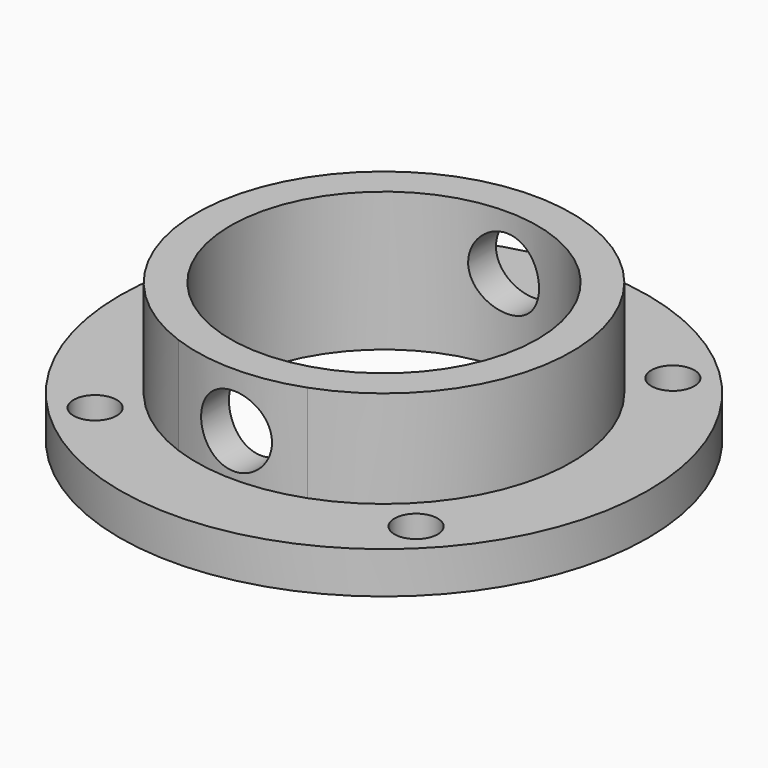
from build123d import *

# Parameters (mm, degrees)
F0_R     = 11.05
F1_DEPTH = 10
F4_D     = 5
F4_DEPTH = 19.5
F4_TIP   = 1.5021515476
F5_R     = 19
F5_R_2   = 1.55
F5_R_3   = 13.5
F6_DEPTH = 3
F9_D     = 5.1


with BuildPart() as f1:
    # F0 (on Top) → F1 (new body)
    with BuildSketch(Plane.XY):
        with BuildLine():
            ThreePointArc((4.633508996, -12.6799288004), (11.063506936, -7.7362015406), (13.5, 0))
            ThreePointArc((13.5, 0), (-7.7362015406, 11.063506936), (-4.633508996, -12.6799288004))
            ThreePointArc((-4.633508996, -12.6799288004), (0, -13.5), (4.633508996, -12.6799288004))
        make_face()
        Circle(F0_R, mode=Mode.SUBTRACT)
    extrude(amount=F1_DEPTH)

    # F4 (one way)
    with BuildSketch(Plane.XZ.offset(9.75)):
        with Locations((0, 5)):
            Circle(F4_D / 2)
    extrude(amount=-F4_DEPTH, mode=Mode.SUBTRACT)
    with Locations(Plane.XZ.offset(9.75)):
        with Locations((0, 5)):
            with Locations((0, 0, -(F4_DEPTH + F4_TIP / 2))):  # 118° drill point
                Cone(0, F4_D / 2, F4_TIP, mode=Mode.SUBTRACT)

    # F5 (on Top) → F6 (join)
    with BuildSketch(Plane.XY):
        Circle(F5_R)
        with Locations((-11.5448845004, -11.5448845004)):
            Circle(F5_R_2, mode=Mode.SUBTRACT)
        with Locations((11.5448845004, -11.5448845004)):
            Circle(F5_R_2, mode=Mode.SUBTRACT)
        with Locations((-11.5448845004, 11.5448845004)):
            Circle(F5_R_2, mode=Mode.SUBTRACT)
        Circle(F5_R_3, mode=Mode.SUBTRACT)
        with Locations((11.5448845004, 11.5448845004)):
            Circle(F5_R_2, mode=Mode.SUBTRACT)
    extrude(amount=F6_DEPTH)

    # F9 (through all)
    with Locations(Plane.XZ.offset(13.65)):
        with Locations((0, 6.0753664002)):
            Hole(F9_D / 2)


solid = f1.part
